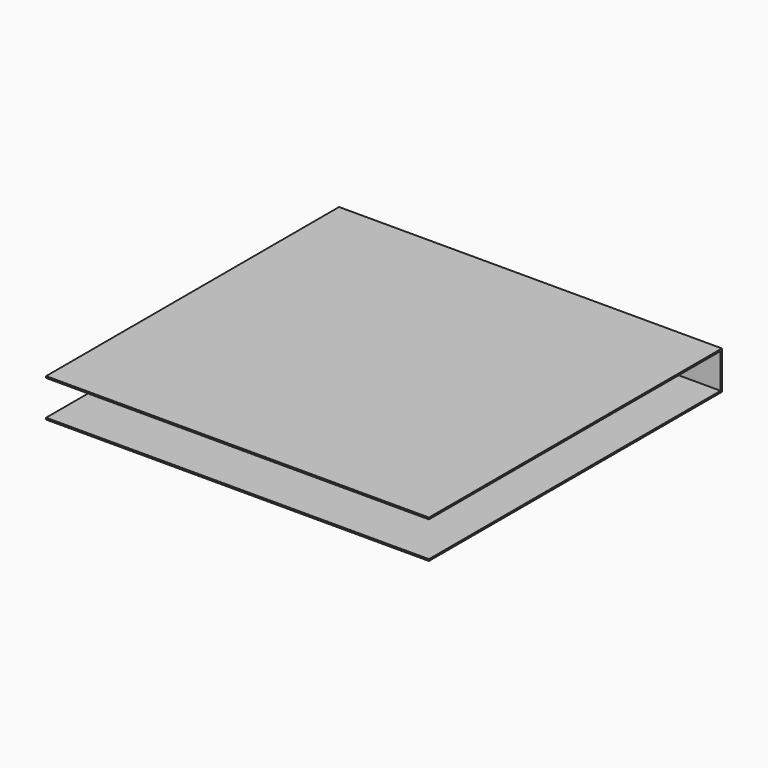
from build123d import *

# Parameters (mm, degrees)
BOX065_W     = 11.5
BOX065_H     = 10.95
BOX065_DEPTH = 1.05
BOX064_W     = 11.5
BOX064_H     = 11
BOX064_DEPTH = 1.15


with BuildPart() as small_cu_gnd_electrode016:
    # Box065 → Box065 (new body)
    with BuildSketch(Plane.XY.offset(0.05)):
        with Locations((5.75, 5.475)):
            Rectangle(BOX065_W, BOX065_H)
    extrude(amount=BOX065_DEPTH)


with BuildPart() as large_cu_electrode_short_axis_gnd:
    # Box064 → Box064 (new body)
    with BuildSketch(Plane.XY):
        with Locations((5.75, 5.5)):
            Rectangle(BOX064_W, BOX064_H)
    extrude(amount=BOX064_DEPTH)

    # Cut015: cut Small Cu GND Electrode016
    add(small_cu_gnd_electrode016.part, mode=Mode.SUBTRACT)


with BuildPart() as large_cu_electrode_short_axis_gnd_1:
    # Cut015 placement: moved
    add(large_cu_electrode_short_axis_gnd.part.moved(Location((-4.76, 9.63, 18.25))))


solid = large_cu_electrode_short_axis_gnd_1.part
